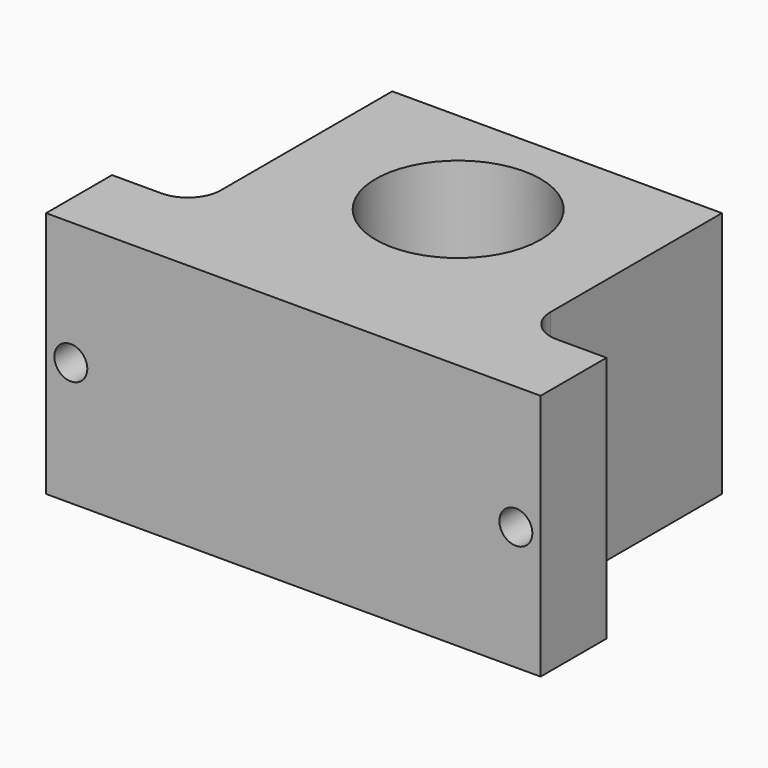
from build123d import *

# Parameters (mm, degrees)
F0_W      = 30
F0_H      = 20
F1_DEPTH  = 15
F2_W      = 5
F2_H      = 15
F3_DEPTH  = 25
F4_W      = 5
F4_H      = 15
F5_DEPTH  = 25
F6_R      = 5
F7_DEPTH  = 15.001
F8_R      = 2
F10_R     = 1
F11_DEPTH = 25
F9_R      = 1
F12_DEPTH = 5.001


with BuildPart() as f1:
    # F0 (on Top) → F1 (new body)
    with BuildSketch(Plane.XY):
        with Locations((3.173804, 4.413379)):
            Rectangle(F0_W, F0_H)
    extrude(amount=F1_DEPTH)

    # F2 (on face) → F3 (cut)
    with BuildSketch(Plane.XY.offset(15)):
        with Locations((15.673804, 6.913379)):
            Rectangle(F2_W, F2_H)
    extrude(amount=-F3_DEPTH, mode=Mode.SUBTRACT)

    # F4 (on face) → F5 (cut)
    with BuildSketch(Plane.XY.offset(15)):
        with Locations((-9.326196, 6.913379)):
            Rectangle(F4_W, F4_H)
    extrude(amount=-F5_DEPTH, mode=Mode.SUBTRACT)

    # F6 (on face) → F7 (cut, through all)
    with BuildSketch(Plane.XY.offset(15)):
        with Locations((3.173804, 6.913379)):
            Circle(F6_R)
    extrude(amount=-F7_DEPTH, mode=Mode.SUBTRACT)

    # F8
    f8_edges = [f1.edges().sort_by_distance(p)[0] for p in [
        (-6.826196, -0.586621, 7.5),
        (13.173804, -0.586621, 7.5),
    ]]
    fillet(f8_edges, radius=F8_R)

    # F10 (on face) → F11 (cut)
    with BuildSketch(Plane(origin=(0, -0.586621, 0), x_dir=(-1, 0, 0), z_dir=(0, 1, 0))):
        with Locations((10.326196, 7.5)):
            Circle(F10_R)
    extrude(amount=-F11_DEPTH, mode=Mode.SUBTRACT)

    # F9 (on face) → F12 (cut, through all)
    with BuildSketch(Plane(origin=(0, -0.586621, 0), x_dir=(-1, 0, 0), z_dir=(0, 1, 0))):
        with Locations((-16.673804, 7.5)):
            Circle(F9_R)
    extrude(amount=-F12_DEPTH, mode=Mode.SUBTRACT)


solid = f1.part
